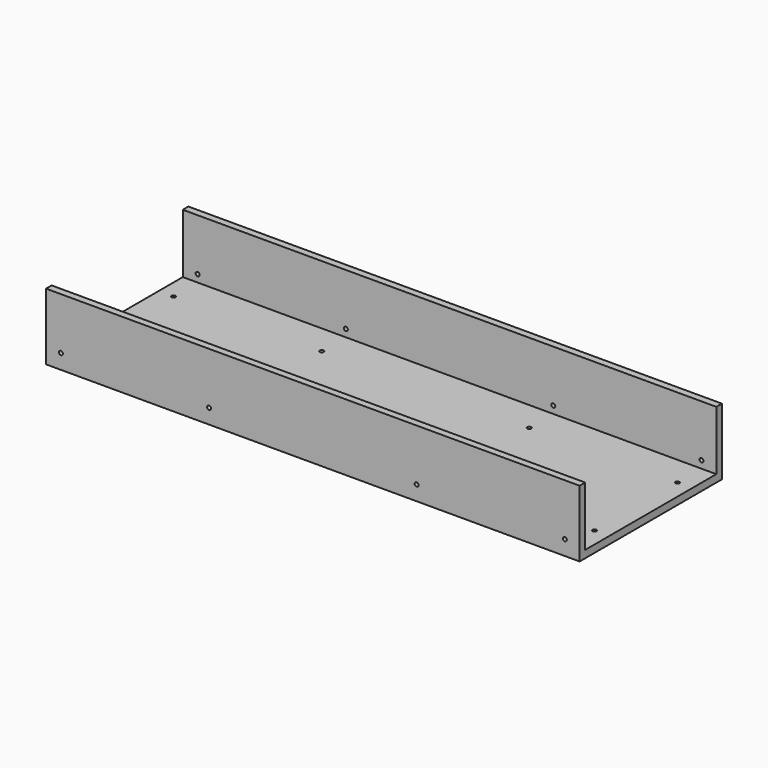
from build123d import *

# Parameters (mm, degrees)
F0_W     = 914.4
F0_H     = 304.8
F1_DEPTH = 12.7
F2_W     = 914.4
F2_H     = 11.938
F3_DEPTH = 101.6
F4_R     = 3.3734375
F5_DEPTH = 25.4
F6_R     = 3.3734375
F7_DEPTH = 327.66
F8_R     = 1.984375
F9_DEPTH = 9.525


with BuildPart() as f1:
    # F0 (on Top) → F1 (new body)
    with BuildSketch(Plane.XY):
        with Locations((457.2, 152.4)):
            Rectangle(F0_W, F0_H)
    extrude(amount=F1_DEPTH)

    # F2 (on face) → F3 (join)
    with BuildSketch(Plane.XY.offset(12.7)):
        with Locations((457.2, 5.969)):
            Rectangle(F2_W, F2_H)
        with Locations((457.2, 298.831)):
            Rectangle(F2_W, F2_H)
    extrude(amount=F3_DEPTH)

    # F4 (on face) → F5 (cut)
    with BuildSketch(Plane.XY.offset(12.7)):
        with Locations((25.4, 241.3)):
            Circle(F4_R)
        with Locations((279.4, 241.3)):
            Circle(F4_R)
        with Locations((279.4, 63.5)):
            Circle(F4_R)
        with Locations((635, 241.3)):
            Circle(F4_R)
        with Locations((889, 241.3)):
            Circle(F4_R)
        with Locations((635, 63.5)):
            Circle(F4_R)
        with Locations((889, 63.5)):
            Circle(F4_R)
        with Locations((25.4, 63.5)):
            Circle(F4_R)
    extrude(amount=-F5_DEPTH, mode=Mode.SUBTRACT)

    # F6 (on face) → F7 (cut, symmetric)
    with BuildSketch(Plane(origin=(0, 11.938, 0), x_dir=(-1, 0, 0), z_dir=(0, 1, 0))):
        with Locations((-889, 25.4)):
            Circle(F6_R)
        with Locations((-635, 25.4)):
            Circle(F6_R)
        with Locations((-279.4, 25.4)):
            Circle(F6_R)
        with Locations((-25.4, 25.4)):
            Circle(F6_R)
    extrude(amount=F7_DEPTH, both=True, mode=Mode.SUBTRACT)

    # F8 (on face) → F9 (cut)
    with BuildSketch(Plane(origin=(0, 0, 0), x_dir=(1, 0, 0), z_dir=(0, 0, -1))):
        with Locations((25.4, -279.4)):
            Circle(F8_R)
        with Locations((889, -279.4)):
            Circle(F8_R)
        with Locations((457.2, -279.4)):
            Circle(F8_R)
        with Locations((889, -25.4)):
            Circle(F8_R)
        with Locations((457.2, -25.4)):
            Circle(F8_R)
        with Locations((25.4, -25.4)):
            Circle(F8_R)
    extrude(amount=-F9_DEPTH, mode=Mode.SUBTRACT)


solid = f1.part
